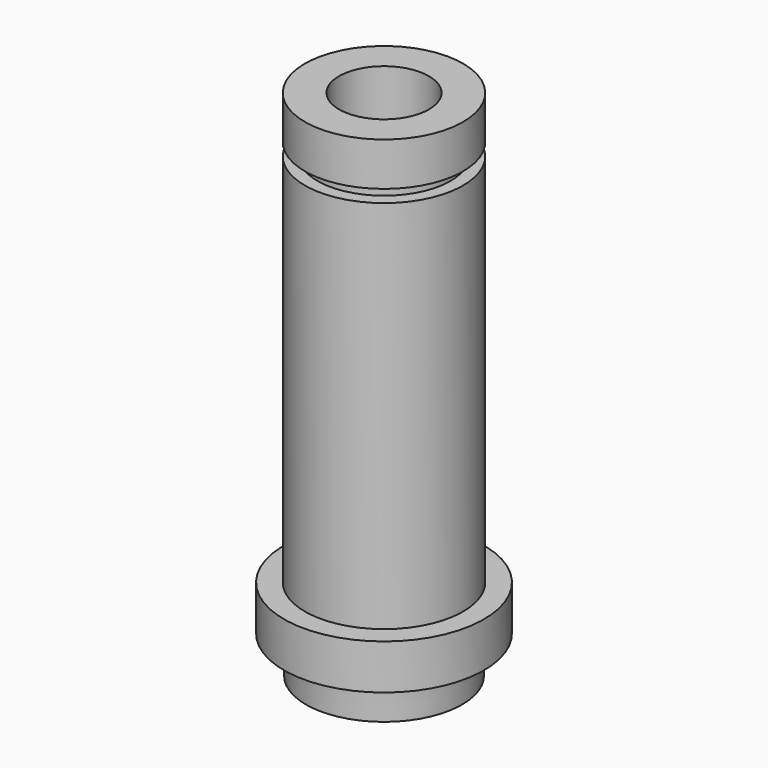
from build123d import *

# Parameters (mm, degrees)
F2_R     = 3.6
F3_DEPTH = 41.081


with BuildPart() as f1:
    # F0 (on Right) → F1 (revolve)
    with BuildSketch(Plane.YZ):
        Polygon((6.33, 3.48), (0, 3.48), (0, -37.6), (6.25, -37.6), (6.33, -34.62), (8, -34.62), (8, -31.02), (6.33, -31.02), (6.33, -1), (5.33, -1), (5.33, 0), (6.33, 0), align=None)
    revolve(axis=Axis((0, 0, -17.06), (0, 0, -1)))

    # F2 (on face) → F3 (cut, through all)
    with BuildSketch(Plane.XY.offset(3.48)):
        Circle(F2_R)
    extrude(amount=-F3_DEPTH, mode=Mode.SUBTRACT)


solid = f1.part
